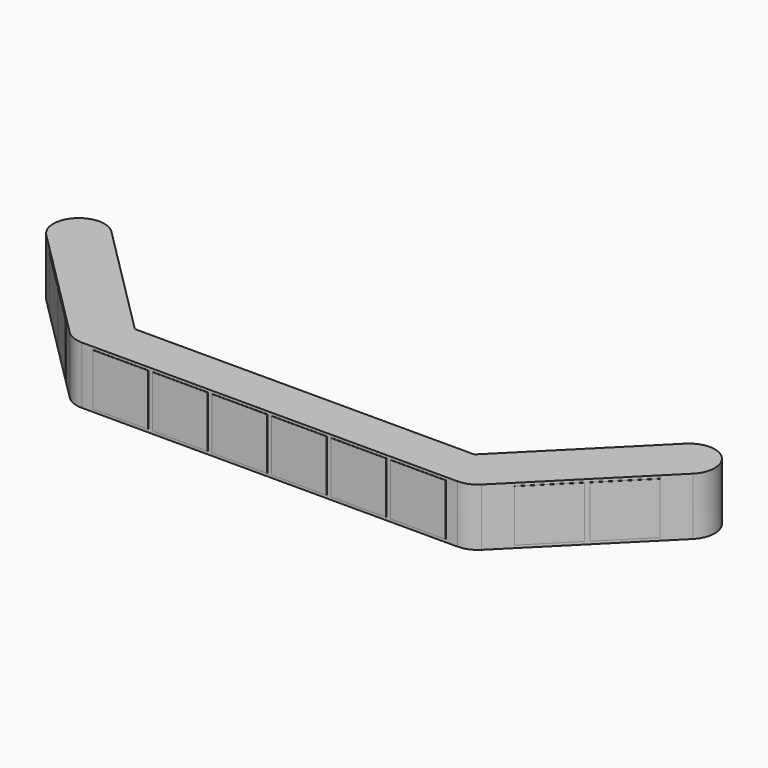
from build123d import *

# Parameters (mm, degrees)
F1_DEPTH = 900
F2_W     = 860
F2_H     = 810
F3_DEPTH = 5
F4_W     = 860
F4_H     = 810
F5_DEPTH = 5
F6_W     = 860
F6_H     = 810
F7_DEPTH = 5


with BuildPart() as f1:
    # F0 (on Top) → F1 (new body)
    with BuildSketch(Plane.XY):
        with BuildLine():
            ThreePointArc((0, -400), (282.8427124746, -282.8427124746), (400, 0))
            ThreePointArc((400, 0), (369.5518130045, 153.073372946), (282.8427124746, 282.8427124746))
            Line((282.8427124746, 282.8427124746), (-282.8427124746, -282.8427124746))
            ThreePointArc((-282.8427124746, -282.8427124746), (-153.073372946, -369.5518130045), (0, -400))
        make_face()
        with BuildLine():
            ThreePointArc((282.8427124746, 282.8427124746), (369.5518130045, 153.073372946), (400, 0))
            ThreePointArc((400, 0), (282.8427124746, -282.8427124746), (0, -400))
            Line((0, -400), (5875, -400))
            ThreePointArc((5875, -400), (5505.4481869955, -153.073372946), (5592.1572875254, 282.8427124746))
            Line((5592.1572875254, 282.8427124746), (282.8427124746, 282.8427124746))
        make_face()
        with BuildLine():
            Line((-282.8427124746, -282.8427124746), (282.8427124746, 282.8427124746))
            ThreePointArc((282.8427124746, 282.8427124746), (-282.8427124746, 282.8427124746), (-282.8427124746, -282.8427124746))
        make_face()
        with BuildLine():
            ThreePointArc((-282.8427124746, -282.8427124746), (-282.8427124746, 282.8427124746), (282.8427124746, 282.8427124746))
            Line((282.8427124746, 282.8427124746), (-1552.8064914857, 2118.4919164349))
            ThreePointArc((-1552.8064914857, 2118.4919164349), (-1466.0973909558, 1988.7225769063), (-1435.6492039603, 1835.6492039603))
            ThreePointArc((-1435.6492039603, 1835.6492039603), (-1682.5758310142, 1466.0973909558), (-2118.4919164349, 1552.8064914857))
            Line((-2118.4919164349, 1552.8064914857), (-282.8427124746, -282.8427124746))
        make_face()
        with BuildLine():
            ThreePointArc((-1435.6492039603, 1835.6492039603), (-1466.0973909558, 1988.7225769063), (-1552.8064914857, 2118.4919164349))
            Line((-1552.8064914857, 2118.4919164349), (-1835.6492039603, 1835.6492039603))
            Line((-1835.6492039603, 1835.6492039603), (-2118.4919164349, 1552.8064914857))
            ThreePointArc((-2118.4919164349, 1552.8064914857), (-1682.5758310142, 1466.0973909558), (-1435.6492039603, 1835.6492039603))
        make_face()
        with BuildLine():
            Line((-1835.6492039603, 1835.6492039603), (-1552.8064914857, 2118.4919164349))
            ThreePointArc((-1552.8064914857, 2118.4919164349), (-2118.4919164349, 2118.4919164349), (-2118.4919164349, 1552.8064914857))
            Line((-2118.4919164349, 1552.8064914857), (-1835.6492039603, 1835.6492039603))
        make_face()
        with BuildLine():
            Line((7427.8064914857, 2118.4919164349), (5592.1572875254, 282.8427124746))
            ThreePointArc((5592.1572875254, 282.8427124746), (6028.073372946, 369.5518130045), (6275, 0))
            ThreePointArc((6275, 0), (6244.5518130045, -153.073372946), (6157.8427124746, -282.8427124746))
            Line((6157.8427124746, -282.8427124746), (7993.4919164349, 1552.8064914857))
            ThreePointArc((7993.4919164349, 1552.8064914857), (7427.8064914857, 1552.8064914857), (7427.8064914857, 2118.4919164349))
        make_face()
        with BuildLine():
            Line((5875, 0), (5592.1572875254, 282.8427124746))
            ThreePointArc((5592.1572875254, 282.8427124746), (5505.4481869955, -153.073372946), (5875, -400))
            ThreePointArc((5875, -400), (6028.073372946, -369.5518130045), (6157.8427124746, -282.8427124746))
            Line((6157.8427124746, -282.8427124746), (5875, 0))
        make_face()
        with BuildLine():
            ThreePointArc((6275, 0), (6028.073372946, 369.5518130045), (5592.1572875254, 282.8427124746))
            Line((5592.1572875254, 282.8427124746), (5875, 0))
            Line((5875, 0), (6157.8427124746, -282.8427124746))
            ThreePointArc((6157.8427124746, -282.8427124746), (6244.5518130045, -153.073372946), (6275, 0))
        make_face()
        with BuildLine():
            ThreePointArc((8110.6492039603, 1835.6492039603), (7863.7225769063, 2205.2010169648), (7427.8064914857, 2118.4919164349))
            Line((7427.8064914857, 2118.4919164349), (7710.6492039603, 1835.6492039603))
            Line((7710.6492039603, 1835.6492039603), (7993.4919164349, 1552.8064914857))
            ThreePointArc((7993.4919164349, 1552.8064914857), (8080.2010169648, 1682.5758310142), (8110.6492039603, 1835.6492039603))
        make_face()
        with BuildLine():
            Line((7710.6492039603, 1835.6492039603), (7427.8064914857, 2118.4919164349))
            ThreePointArc((7427.8064914857, 2118.4919164349), (7427.8064914857, 1552.8064914857), (7993.4919164349, 1552.8064914857))
            Line((7993.4919164349, 1552.8064914857), (7710.6492039603, 1835.6492039603))
        make_face()
    extrude(amount=F1_DEPTH)

    # F2 (on face) → F3 (join)
    with BuildSketch(Plane.XZ.offset(400)):
        with Locations((610, 450)):
            Rectangle(F2_W, F2_H)
        with Locations((1541, 450)):
            Rectangle(F2_W, F2_H)
        with Locations((2472, 450)):
            Rectangle(F2_W, F2_H)
        with Locations((3403, 450)):
            Rectangle(F2_W, F2_H)
        with Locations((4334, 450)):
            Rectangle(F2_W, F2_H)
        with Locations((5265, 450)):
            Rectangle(F2_W, F2_H)
    extrude(amount=F3_DEPTH)

    # F4 (on face) → F5 (join)
    with BuildSketch(Plane(origin=(-282.8427124746, -282.8427124746, 0), x_dir=(0.7071067812, -0.7071067812, 0), z_dir=(-0.7071067812, -0.7071067812, 0))):
        with Locations((-1763.5, 450)):
            Rectangle(F4_W, F4_H)
        with Locations((-832.5, 450)):
            Rectangle(F4_W, F4_H)
    extrude(amount=F5_DEPTH)

    # F6 (on face) → F7 (join)
    with BuildSketch(Plane(origin=(3220.3427124746, -3220.3427124746, 0), x_dir=(0.7071067812, 0.7071067812, 0), z_dir=(0.7071067812, -0.7071067812, 0))):
        with Locations((4986.752339471, 450)):
            Rectangle(F6_W, F6_H)
        with Locations((5917.752339471, 450)):
            Rectangle(F6_W, F6_H)
    extrude(amount=F7_DEPTH)


solid = f1.part
